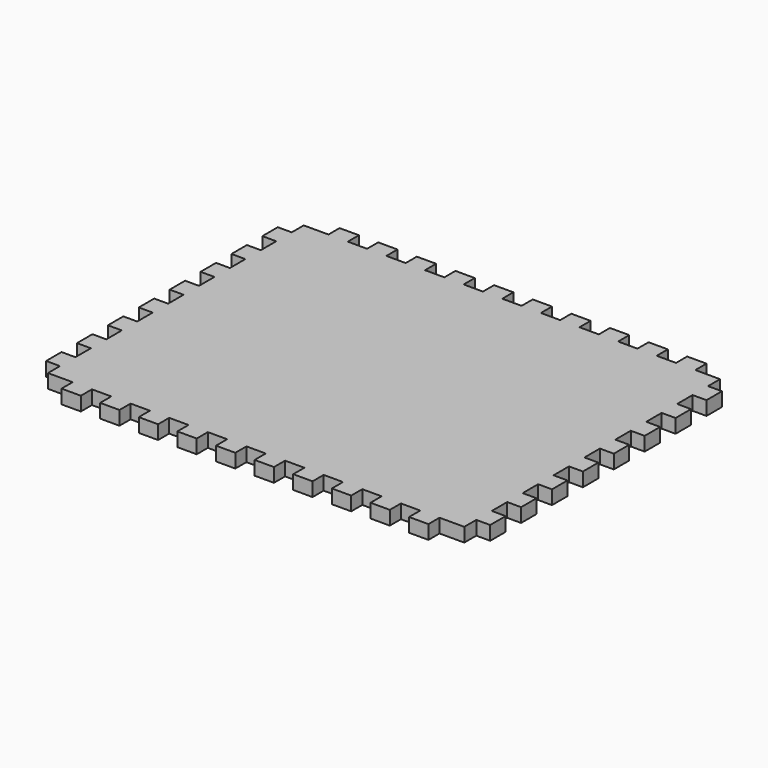
from build123d import *

# Parameters (mm, degrees)
F1_DEPTH = 9.144


with BuildPart() as f1:
    # F0 (on Top) → F1 (new body)
    with BuildSketch(Plane.XY):
        Polygon((38.1, 0), (25.4, 0), (25.4, -9.144), (9.144, -9.144), (9.144, -19.05), (0, -19.05), (0, -31.75), (9.144, -31.75), (9.144, -44.45), (0, -44.45), (0, -57.15), (9.144, -57.15), (9.144, -69.85), (0, -69.85), (0, -82.55), (9.144, -82.55), (9.144, -95.25), (0, -95.25), (0, -107.95), (9.144, -107.95), (9.144, -120.65), (0, -120.65), (0, -133.35), (9.144, -133.35), (9.144, -146.05), (0, -146.05), (0, -158.75), (9.144, -158.75), (9.144, -171.45), (0, -171.45), (0, -184.15), (9.144, -184.15), (9.144, -196.85), (0, -196.85), (0, -209.55), (9.144, -209.55), (9.144, -219.456), (25.4, -219.456), (25.4, -228.6), (38.1, -228.6), (38.1, -219.456), (50.8, -219.456), (50.8, -228.6), (63.5, -228.6), (63.5, -219.456), (76.2, -219.456), (76.2, -228.6), (88.9, -228.6), (88.9, -219.456), (101.6, -219.456), (101.6, -228.6), (114.3, -228.6), (114.3, -219.456), (127, -219.456), (127, -228.6), (139.7, -228.6), (139.7, -219.456), (152.4, -219.456), (152.4, -228.6), (165.1, -228.6), (165.1, -219.456), (177.8, -219.456), (177.8, -228.6), (190.5, -228.6), (190.5, -219.456), (203.2, -219.456), (203.2, -228.6), (215.9, -228.6), (215.9, -219.456), (228.6, -219.456), (228.6, -228.6), (241.3, -228.6), (241.3, -219.456), (254, -219.456), (254, -228.6), (266.7, -228.6), (266.7, -219.456), (282.956, -219.456), (282.956, -209.55), (292.1, -209.55), (292.1, -196.85), (282.956, -196.85), (282.956, -184.15), (292.1, -184.15), (292.1, -171.45), (282.956, -171.45), (282.956, -158.75), (292.1, -158.75), (292.1, -146.05), (282.956, -146.05), (282.956, -133.35), (292.1, -133.35), (292.1, -120.65), (282.956, -120.65), (282.956, -107.95), (292.1, -107.95), (292.1, -95.25), (282.956, -95.25), (282.956, -82.55), (292.1, -82.55), (292.1, -69.85), (282.956, -69.85), (282.956, -57.15), (292.1, -57.15), (292.1, -44.45), (282.956, -44.45), (282.956, -31.75), (292.1, -31.75), (292.1, -19.05), (282.956, -19.05), (282.956, -9.144), (266.7, -9.144), (266.7, 0), (254, 0), (254, -9.144), (241.3, -9.144), (241.3, 0), (228.6, 0), (228.6, -9.144), (215.9, -9.144), (215.9, 0), (203.2, 0), (203.2, -9.144), (190.5, -9.144), (190.5, 0), (177.8, 0), (177.8, -9.144), (165.1, -9.144), (165.1, 0), (152.4, 0), (152.4, -9.144), (139.7, -9.144), (139.7, 0), (127, 0), (127, -9.144), (114.3, -9.144), (114.3, 0), (101.6, 0), (101.6, -9.144), (88.9, -9.144), (88.9, 0), (76.2, 0), (76.2, -9.144), (63.5, -9.144), (63.5, 0), (50.8, 0), (50.8, -9.144), (38.1, -9.144), align=None)
    extrude(amount=F1_DEPTH)


solid = f1.part
